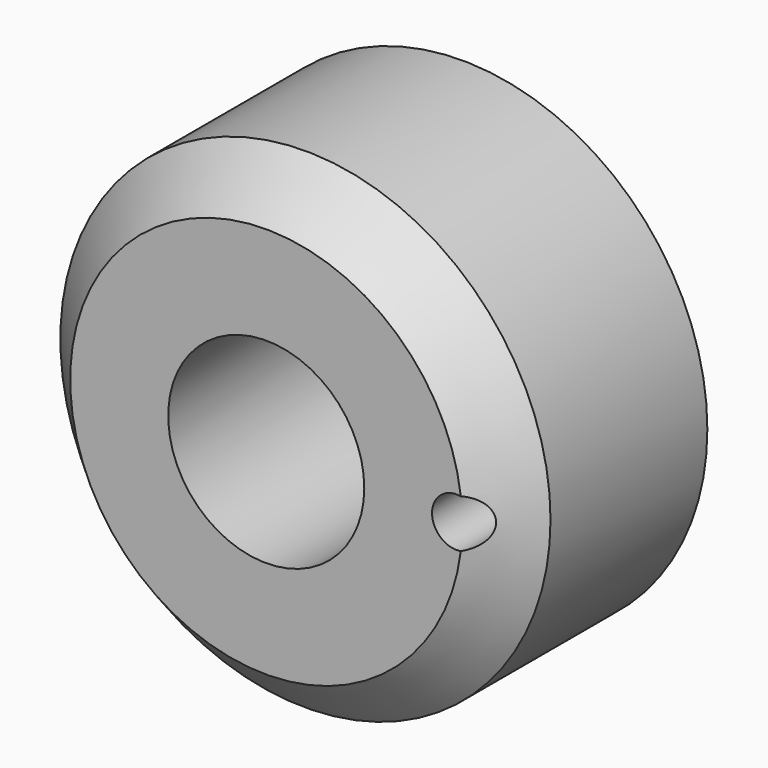
from build123d import *

# Parameters (mm, degrees)
F0_R     = 25
F1_DEPTH = 25
F2_R     = 10
F3_DEPTH = 50
F4_SIZE  = 5
F5_R     = 2.5
F6_DEPTH = 25


with BuildPart() as f1:
    # F0 (on Front) → F1 (new body)
    with BuildSketch(Plane.XZ):
        Circle(F0_R)
    extrude(amount=F1_DEPTH)

    # F2 (on Front) → F3 (cut)
    with BuildSketch(Plane.XZ):
        Circle(F2_R)
    extrude(amount=F3_DEPTH, mode=Mode.SUBTRACT)

    # F4
    f4_edges = [f1.edges().sort_by_distance(p)[0] for p in [
        (-25, -25, 0),
    ]]
    chamfer(f4_edges, length=F4_SIZE)

    # F5 (on Front) → F6 (cut)
    with BuildSketch(Plane.XZ):
        with Locations((19.415321, 0)):
            Circle(F5_R)
    extrude(amount=F6_DEPTH, mode=Mode.SUBTRACT)


solid = f1.part
